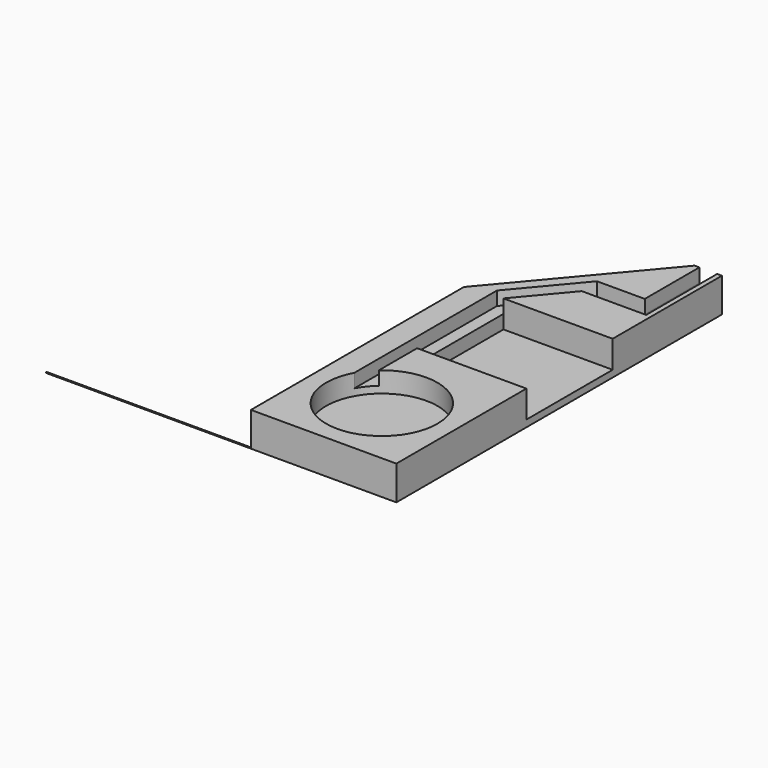
from build123d import *

# Parameters (mm, degrees)
F1_DEPTH  = 6.35
F2_R      = 10.3505
F3_DEPTH  = 3.81
F4_W      = 20.32
F4_H      = 20.066
F5_DEPTH  = 5.08
F7_DEPTH  = 12.7
F9_DEPTH  = 2.54
F10_W     = 38.1
F10_H     = 0.127
F11_DEPTH = 0.127


with BuildPart() as f1:
    # F0 (on Top) → F1 (new body)
    with BuildSketch(Plane.XY):
        Polygon((8.4455, 45.466), (-13.5255, 19.281982), (-13.5255, -30.226), (13.5255, -30.226), (13.5255, 45.466), align=None)
    extrude(amount=F1_DEPTH)

    # F2 (on face) → F3 (cut)
    with BuildSketch(Plane.XY.offset(6.35)):
        with Locations((0, -16.7005)):
            Circle(F2_R)
    extrude(amount=-F3_DEPTH, mode=Mode.SUBTRACT)

    # F4 (on face) → F5 (cut)
    with BuildSketch(Plane.XY.offset(6.35)):
        with Locations((3.3655, 10.033)):
            Rectangle(F4_W, F4_H)
    extrude(amount=-F5_DEPTH, mode=Mode.SUBTRACT)

    # F6 (on face) → F7 (cut)
    with BuildSketch(Plane(origin=(0, 45.466, 0), x_dir=(-1, 0, 0), z_dir=(0, 1, 0))):
        with BuildLine():
            ThreePointArc((-12.6365, 3.81), (-10.9855, 2.159), (-9.3345, 3.81))
            ThreePointArc((-9.3345, 3.81), (-10.9855, 5.461), (-12.6365, 3.81))
        make_face()
        with BuildLine():
            ThreePointArc((-12.6365, 3.81), (-10.9855, 5.461), (-9.3345, 3.81))
            Line((-9.3345, 3.81), (-9.3345, 6.35))
            Line((-9.3345, 6.35), (-12.6365, 6.35))
            Line((-12.6365, 6.35), (-12.6365, 3.81))
        make_face()
    extrude(amount=-F7_DEPTH, mode=Mode.SUBTRACT)

    # F8 (on face) → F9 (cut)
    with BuildSketch(Plane.XY.offset(6.35)):
        with BuildLine():
            Line((12.6365, 28.956), (12.6365, 32.766))
            Line((12.6365, 32.766), (0.441522, 32.766))
            Line((0.441522, 32.766), (-9.0805, 21.418096))
            Line((-9.0805, 21.418096), (-9.0805, -11.732868))
            ThreePointArc((-9.0805, -11.732868), (-8.063565, -10.211142), (-6.7945, -8.892324))
            Line((-6.7945, -8.892324), (-6.7945, 0))
            Line((-6.7945, 0), (-6.7945, 20.066))
            Line((-6.7945, 20.066), (0.665096, 28.956))
            Line((0.665096, 28.956), (12.6365, 28.956))
        make_face()
    extrude(amount=-F9_DEPTH, mode=Mode.SUBTRACT)

    # F10 (on face) → F11 (join)
    with BuildSketch(Plane.XY):
        with Locations((-32.5755, -30.1625)):
            Rectangle(F10_W, F10_H)
    extrude(amount=F11_DEPTH)


solid = f1.part
